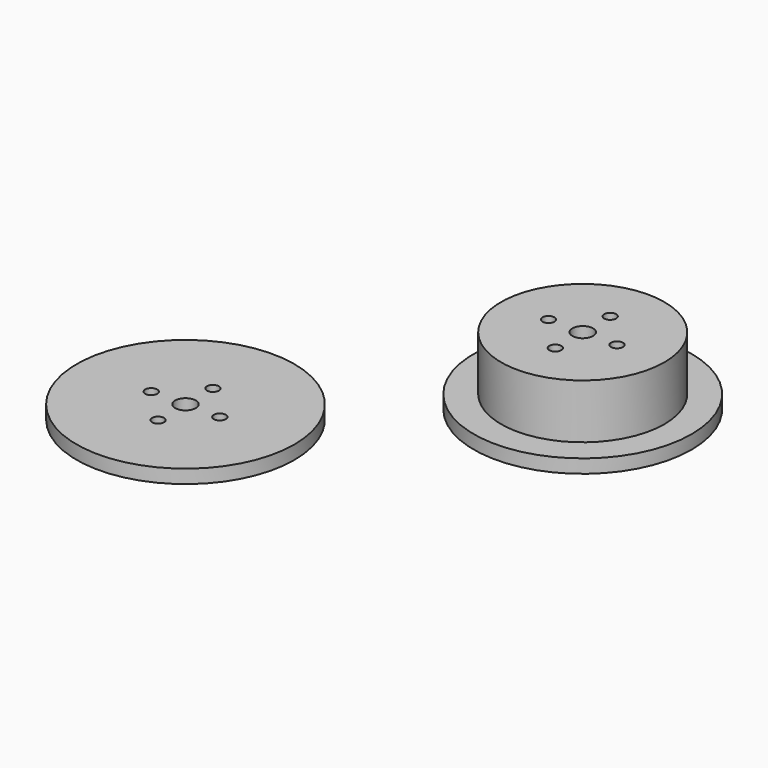
from build123d import *

# Parameters (mm, degrees)
F0_R     = 19.05
F0_R_2   = 1.397
F0_R_3   = 2.413
F1_DEPTH = 12.7
F0_R_4   = 25.4
F2_DEPTH = 3.175
F3_R     = 25.4
F3_R_2   = 19.05
F3_R_3   = 1.397
F3_R_4   = 2.413
F4_DEPTH = 3.175


with BuildPart() as f1:
    # F0 (on Top) → F1 (new body)
    with BuildSketch(Plane.XY):
        Circle(F0_R)
        with Locations((0, -8.001)):
            Circle(F0_R_2, mode=Mode.SUBTRACT)
        with Locations((-8.001, 0)):
            Circle(F0_R_2, mode=Mode.SUBTRACT)
        Circle(F0_R_3, mode=Mode.SUBTRACT)
        with Locations((8.001, 0)):
            Circle(F0_R_2, mode=Mode.SUBTRACT)
        with Locations((0, 8.001)):
            Circle(F0_R_2, mode=Mode.SUBTRACT)
    extrude(amount=F1_DEPTH)

    # F0 (on Top) → F2 (join)
    with BuildSketch(Plane.XY):
        Circle(F0_R_4)
        Circle(F0_R, mode=Mode.SUBTRACT)
        Circle(F0_R)
        with Locations((0, -8.001)):
            Circle(F0_R_2, mode=Mode.SUBTRACT)
        with Locations((-8.001, 0)):
            Circle(F0_R_2, mode=Mode.SUBTRACT)
        Circle(F0_R_3, mode=Mode.SUBTRACT)
        with Locations((8.001, 0)):
            Circle(F0_R_2, mode=Mode.SUBTRACT)
        with Locations((0, 8.001)):
            Circle(F0_R_2, mode=Mode.SUBTRACT)
    extrude(amount=-F2_DEPTH)


with BuildPart() as f4:
    # F3 (on Top) → F4 (new body)
    with BuildSketch(Plane.XY):
        with Locations((-50.1633882523, -53.126167506)):
            Circle(F3_R)
        with Locations((-50.1633882523, -53.126167506)):
            Circle(F3_R_2, mode=Mode.SUBTRACT)
        with Locations((-50.1633882523, -53.126167506)):
            Circle(F3_R_2)
        with Locations((-50.1633882523, -61.127167506)):
            Circle(F3_R_3, mode=Mode.SUBTRACT)
        with Locations((-58.1643882523, -53.126167506)):
            Circle(F3_R_3, mode=Mode.SUBTRACT)
        with Locations((-50.1633882523, -53.126167506)):
            Circle(F3_R_4, mode=Mode.SUBTRACT)
        with Locations((-42.1623882523, -53.126167506)):
            Circle(F3_R_3, mode=Mode.SUBTRACT)
        with Locations((-50.1633882523, -45.125167506)):
            Circle(F3_R_3, mode=Mode.SUBTRACT)
    extrude(amount=F4_DEPTH)


solid = Compound([f1.part, f4.part])
